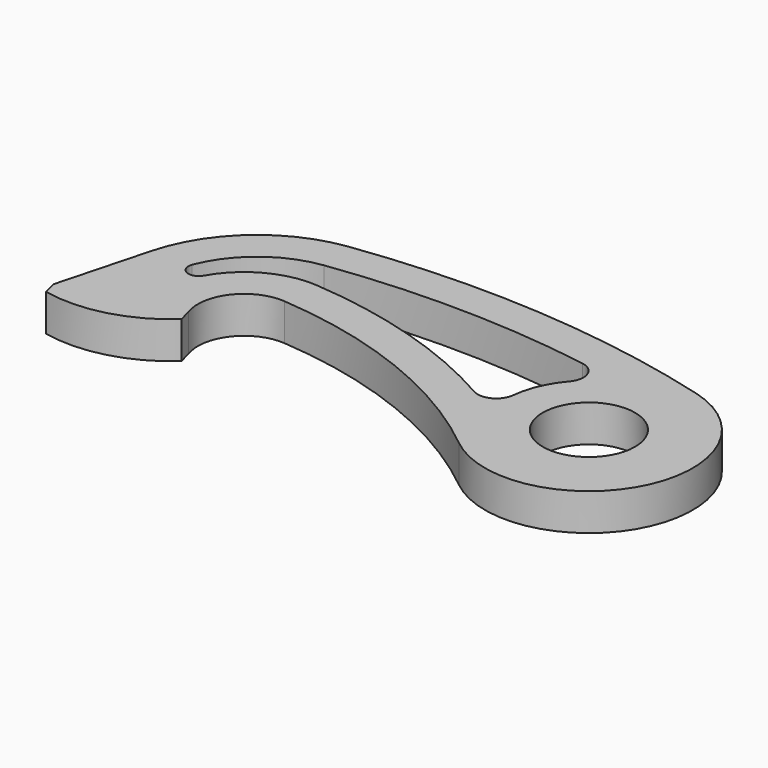
from build123d import *

# Parameters (mm, degrees)
F0_R     = 10
F1_DEPTH = 8


with BuildPart() as f1:
    # F0 (on Top) → F1 (new body)
    with BuildSketch(Plane.XY):
        with BuildLine():
            ThreePointArc((-69.624749, 4.596739), (-40.217301, -2.204414), (-14.178766, -17.470335))
            ThreePointArc((-14.178766, -17.470335), (20.016237, -10.276199), (5.932914, 21.703698))
            ThreePointArc((5.932914, 21.703698), (-33.628428, 28.347466), (-73.71984, 26.962516))
            ThreePointArc((-73.71984, 26.962516), (-89.508922, 19.750139), (-98.660254, 5))
            Line((-98.660254, 5), (-100, 0))
            Line((-100, 0), (-104.019238, -15))
            Line((-104.019238, -15), (-103.242781, -17.897777))
            ThreePointArc((-103.242781, -17.897777), (-90.392251, -17.560317), (-79.094635, -11.427301))
            Line((-79.094635, -11.427301), (-79.871092, -8.529524))
            ThreePointArc((-79.871092, -8.529524), (-78.264558, 0.77869), (-69.624749, 4.596739))
        make_face()
        Circle(F0_R, mode=Mode.SUBTRACT)
        with BuildLine():
            ThreePointArc((-16.033026, 18.300115), (-12.916015, 15.72181), (-13.642437, 11.742398))
            ThreePointArc((-13.642437, 11.742398), (-16.529122, 7.12658), (-17.903763, 1.858839))
            ThreePointArc((-17.903763, 1.858839), (-20.05158, -1.284513), (-23.857845, -1.206234))
            ThreePointArc((-23.857845, -1.206234), (-45.676184, 8.182002), (-69.019088, 12.57378))
            ThreePointArc((-69.019088, 12.57378), (-78.904215, 10.480055), (-86.103752, 3.390197))
            ThreePointArc((-86.103752, 3.390197), (-89.022149, 2.455102), (-90.149125, 5.304904))
            ThreePointArc((-90.149125, 5.304904), (-83.259717, 14.546079), (-72.643211, 19.035293))
            ThreePointArc((-72.643211, 19.035293), (-44.310872, 20.765745), (-16.033026, 18.300115))
        make_face(mode=Mode.SUBTRACT)
    extrude(amount=-F1_DEPTH)


solid = f1.part
